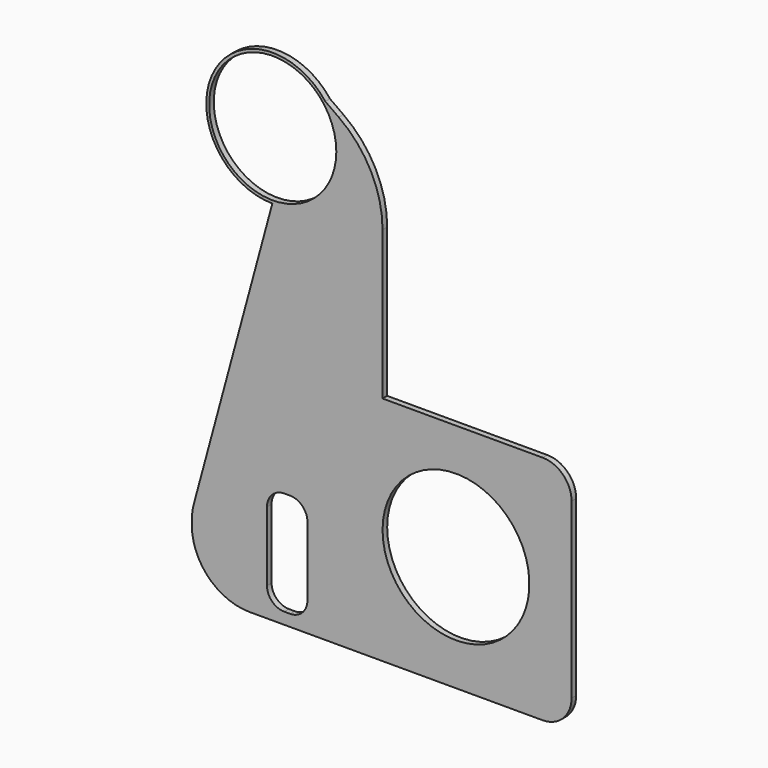
from build123d import *

# Parameters (mm, degrees)
F0_R     = 11
F1_DEPTH = 1


with BuildPart() as f1:
    # F0 (on Front) → F1 (new body)
    with BuildSketch(Plane.XZ):
        with BuildLine():
            ThreePointArc((-20.2, 55), (-20.815670936, 58.7123282218), (-22.5967618828, 62.0271655581))
            ThreePointArc((-22.5967618828, 62.0271655581), (-42.0061632577, 60.1022542964), (-31.7688713732, 43.5002062308))
            ThreePointArc((-31.7688713732, 43.5002062308), (-23.5926582899, 46.8439586565), (-20.2, 55))
        make_face()
        with Locations((-31.7, 55)):
            Circle(F0_R, mode=Mode.SUBTRACT)
        with BuildLine():
            Line((-20, 20), (-12.7, 20))
            Line((-12.7, 20), (-12.7, 45.7048399691))
            ThreePointArc((-12.7, 45.7048399691), (-14.7065803005, 53.9638063884), (-20.2789473684, 60.3814084389))
            Line((-20.2789473684, 60.3814084389), (-22.5967618828, 62.0271655581))
            ThreePointArc((-22.5967618828, 62.0271655581), (-20.815670936, 58.7123282218), (-20.2, 55))
            ThreePointArc((-20.2, 55), (-23.5926582899, 46.8439586565), (-31.7688713732, 43.5002062308))
            Line((-31.7688713732, 43.5002062308), (-45.3524999934, -6.6727046639))
            ThreePointArc((-45.3524999934, -6.6727046639), (-45.6127443207, -7.9678442227), (-45.7, -9.2859868679))
            Line((-45.7, -9.2859868679), (-45.7, -10))
            ThreePointArc((-45.7, -10), (-42.7710678119, -17.0710678119), (-35.7, -20))
            Line((-35.7, -20), (-20, -20))
            Line((-20, -20), (-20, 20))
        make_face()
        with BuildLine():
            ThreePointArc((-32.7, -3), (-31.8213203436, -0.8786796564), (-29.7, 0))
            Line((-29.7, 0), (-28.7, 0))
            ThreePointArc((-28.7, 0), (-26.5786796564, -0.8786796564), (-25.7, -3))
            Line((-25.7, -3), (-25.7, -15))
            ThreePointArc((-25.7, -15), (-26.5786796564, -17.1213203436), (-28.7, -18))
            Line((-28.7, -18), (-29.7, -18))
            ThreePointArc((-29.7, -18), (-31.8213203436, -17.1213203436), (-32.7, -15))
            Line((-32.7, -15), (-32.7, -3))
        make_face(mode=Mode.SUBTRACT)
        with BuildLine():
            Line((-12.7, 20), (-12.7, -1.15e-08))
            Line((-12.7, -1.15e-08), (-12.7, -20))
            Line((-12.7, -20), (15, -20))
            ThreePointArc((15, -20), (18.5355339059, -18.5355339059), (20, -15))
            Line((20, -15), (20, 15))
            ThreePointArc((20, 15), (18.5355339059, 18.5355339059), (15, 20))
            Line((15, 20), (-12.7, 20))
        make_face()
        with BuildLine():
            ThreePointArc((-12.7, -1.15e-08), (-5.7e-09, 12.7), (12.7, 0))
            ThreePointArc((12.7, 0), (5.7e-09, -12.7), (-12.7, -1.15e-08))
        make_face(mode=Mode.SUBTRACT)
        Polygon((-12.7, -20), (-12.7, -1.15e-08), (-12.7, 20), (-20, 20), (-20, -20), align=None)
    extrude(amount=F1_DEPTH)


solid = f1.part
